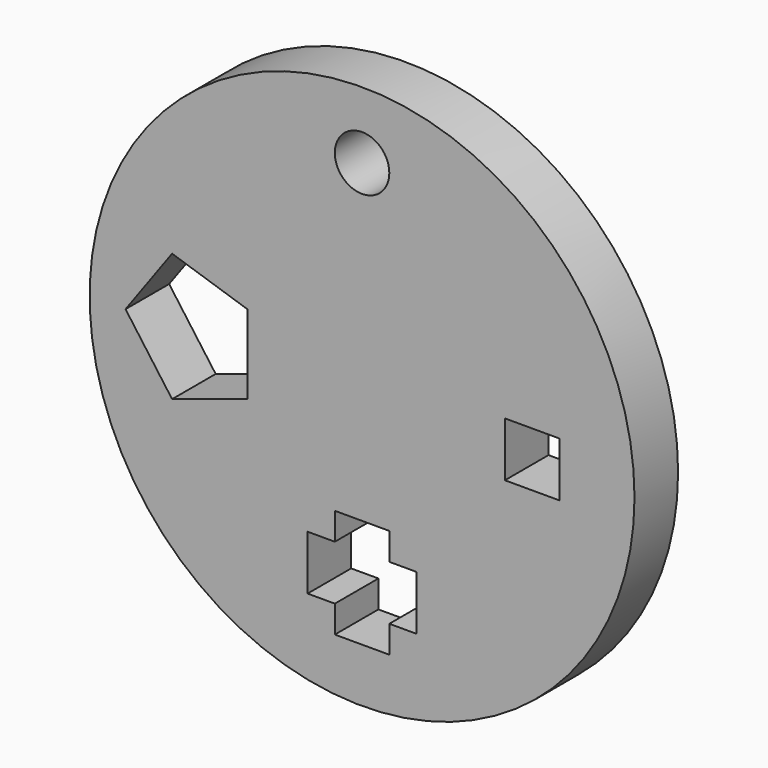
from build123d import *

# Parameters (mm, degrees)
F0_R     = 127
F0_W     = 25.4
F0_H     = 25.4
F0_R_2   = 12.7
F1_DEPTH = 12.7


with BuildPart() as f1:
    # F0 (on Front) → F1 (new body, symmetric)
    with BuildSketch(Plane.XZ):
        Circle(F0_R)
        Polygon((25.4, -63.712573), (25.4, -89.112573), (12.7, -89.112573), (12.7, -101.812573), (-12.7, -101.812573), (-12.7, -89.112573), (-25.4, -89.112573), (-25.4, -63.712573), (-12.7, -63.712573), (-12.7, -51.012573), (12.7, -51.012573), (12.7, -63.712573), align=None, mode=Mode.SUBTRACT)
        Polygon((-88.564701, 29.859491), (-53.462764, 18.45418), (-53.462764, -18.45418), (-88.564701, -29.859491), (-110.258891, 0), align=None, mode=Mode.SUBTRACT)
        with Locations((79.287454, 0)):
            Rectangle(F0_W, F0_H, mode=Mode.SUBTRACT)
        with Locations((0, 95.858186)):
            Circle(F0_R_2, mode=Mode.SUBTRACT)
    extrude(amount=F1_DEPTH, both=True)


solid = f1.part
